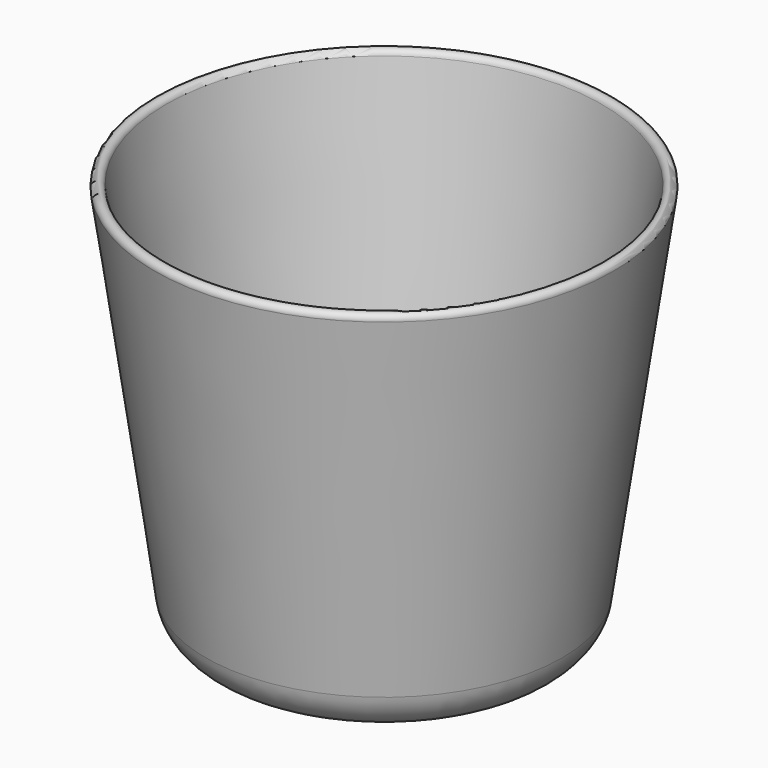
from build123d import *


with BuildPart() as f1:
    # F0 (on Front) → F1 (revolve)
    with BuildSketch(Plane.XZ):
        with BuildLine():
            Line((0, 12), (0, 0))
            Line((0, 0), (23.061637, 0))
            ThreePointArc((23.061637, 0), (28.303251, 1.956368), (30.981233, 6.868629))
            Line((30.981233, 6.868629), (39.83694, 68.858579))
            ThreePointArc((39.83694, 68.858579), (38.988412, 69.989949), (37.857041, 69.141421))
            Line((37.857041, 69.141421), (30.307251, 16.292893))
            ThreePointArc((30.307251, 16.292893), (28.633512, 13.22273), (25.357504, 12))
            Line((25.357504, 12), (0, 12))
        make_face()
    revolve(axis=Axis((0, 0, 6), (0, 0, -1)))


solid = f1.part
